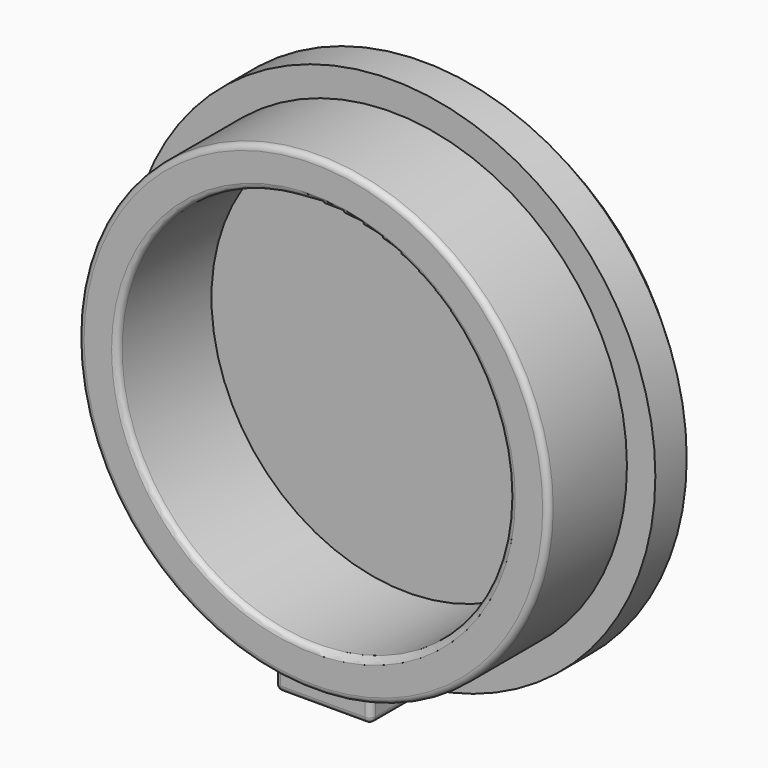
from build123d import *

# Parameters (mm, degrees)
F0_R          = 12
F0_R_2        = 10
F1_DEPTH      = 6
F2_R          = 13.45
F3_DEPTH      = 1
F3_DEPTH_BACK = 2
F4_R          = 10
F5_DEPTH      = 6
F6_W          = 4.9
F6_H          = 2
F7_DEPTH      = 5.4
F8_SIZE       = 1
F9_R          = 0.3
F10_R         = 0.3


with BuildPart() as f1:
    # F0 (on Front) → F1 (new body)
    with BuildSketch(Plane.XZ):
        Circle(F0_R)
        Circle(F0_R_2, mode=Mode.SUBTRACT)
    extrude(amount=F1_DEPTH)

    # F2 (on Front) → F3 (join, two sides)
    with BuildSketch(Plane.XZ) as f3_sk:
        Circle(F2_R)
    extrude(amount=F3_DEPTH)
    extrude(f3_sk.sketch, amount=-F3_DEPTH_BACK)

    # F4 (on Front) → F5 (cut, through all)
    with BuildSketch(Plane.XZ):
        Circle(F4_R)
    extrude(amount=F5_DEPTH, mode=Mode.SUBTRACT)

    # F6 (on Front) → F7 (join)
    with BuildSketch(Plane.XZ):
        with Locations((0, -12)):
            Rectangle(F6_W, F6_H)
    extrude(amount=F7_DEPTH)

    # F8
    f8_edges = [f1.edges().sort_by_distance(p)[0] for p in [
        (-13.45, 2, 0),
    ]]
    chamfer(f8_edges, length=F8_SIZE)

    # F9
    f9_edges = [f1.edges().sort_by_distance(p)[0] for p in [
        (-2.45, -3.2, -13),
        (0, -5.4, -13),
        (2.45, -3.2, -13),
        (-2.45, -5.4, -12.373617),
        (2.45, -5.4, -12.373617),
    ]]
    fillet(f9_edges, radius=F9_R)

    # F10
    f10_edges = [f1.edges().sort_by_distance(p)[0] for p in [
        (-12, -6, 0),
        (-10, -6, 0),
    ]]
    fillet(f10_edges, radius=F10_R)


solid = f1.part
